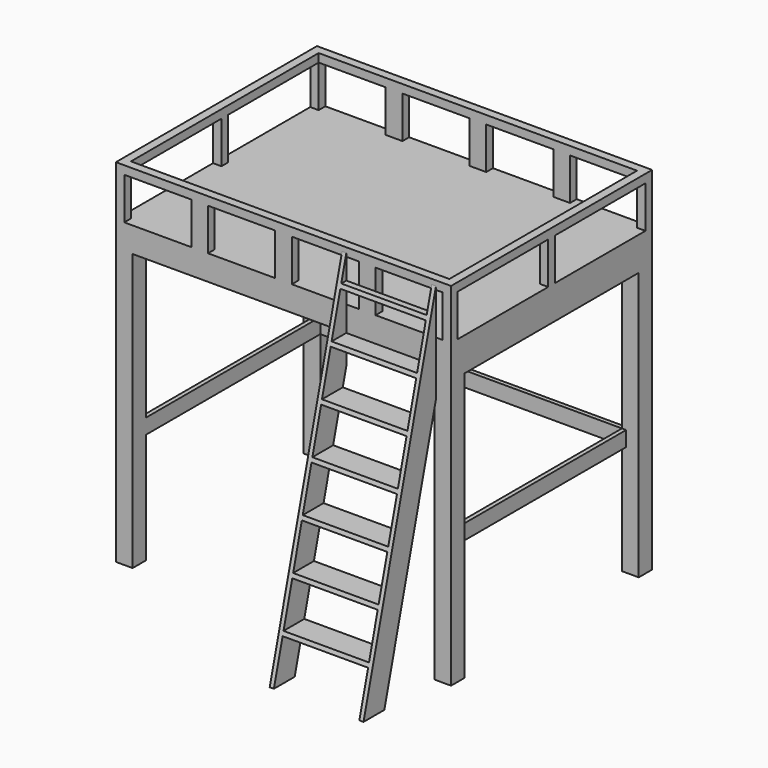
from build123d import *

# Parameters (mm, degrees)
F1_DEPTH      = 1500
F3_W          = 1900
F3_H          = 1400
F4_DEPTH      = 300
F5_W          = 400
F5_H          = 250
F6_DEPTH      = 1500.001
F7_W          = 675
F7_H          = 250
F8_DEPTH      = 1950.001
F8_DEPTH_BACK = 50.001
F9_W          = 1300
F9_H          = 1600
F10_DEPTH     = 2000.001
F14_DEPTH     = 560
F15_W         = 510
F15_H         = 250
F16_DEPTH     = 540.001
F18_DEPTH     = 90


with BuildPart() as f1:
    # F0 (on Front) → F1 (new body)
    with BuildSketch(Plane.XZ):
        Polygon((-1000, 1800), (-1000, 0), (-900, 0), (-900, 1650), (0, 1650), (0, 1800), align=None)
    extrude(amount=F1_DEPTH)

    # F2: F1 across plane


with BuildPart() as f1_1:
    add(f1.part)
    add(f1.part.mirror(Plane.YZ))

    # F3 (on face) → F4 (join)
    with BuildSketch(Plane.XY.offset(1800)):
        Polygon((-1000, -1500), (1000, -1500), (1000, -1450), (1000, 0), (-1000, 0), (-1000, -50), align=None)
        with Locations((0, -750)):
            Rectangle(F3_W, F3_H, mode=Mode.SUBTRACT)
    extrude(amount=F4_DEPTH)

    # F5 (on face) → F6 (cut, through all)
    with BuildSketch(Plane.XZ.offset(1500)):
        with Locations((-750, 1925)):
            Rectangle(F5_W, F5_H)
        with Locations((-250, 1925)):
            Rectangle(F5_W, F5_H)
        with Locations((250, 1925)):
            Rectangle(F5_W, F5_H)
        with Locations((750, 1925)):
            Rectangle(F5_W, F5_H)
        with Locations((1250, 1925)):
            Rectangle(F5_W, F5_H)
    extrude(amount=-F6_DEPTH, mode=Mode.SUBTRACT)

    # F7 (on face) → F8 (cut, two sides)
    with BuildSketch(Plane.YZ.offset(-950)) as f8_sk:
        with Locations((-1112.5, 1925)):
            Rectangle(F7_W, F7_H)
        with Locations((-387.5, 1925)):
            Rectangle(F7_W, F7_H)
    extrude(amount=F8_DEPTH, mode=Mode.SUBTRACT)
    extrude(f8_sk.sketch, amount=-F8_DEPTH_BACK, mode=Mode.SUBTRACT)

    # F9 (on face) → F10 (cut, through all)
    with BuildSketch(Plane(origin=(-1000, 0, 0), x_dir=(0, -1, 0), z_dir=(-1, 0, 0))):
        with Locations((750, 800)):
            Rectangle(F9_W, F9_H)
    extrude(amount=-F10_DEPTH, mode=Mode.SUBTRACT)

    # F17 (on offset) → F18 (join)
    with BuildSketch(Plane.XY.offset(660)):
        Polygon((-925, -75), (-925, -1400), (-900, -1400), (-900, -100), (900, -100), (900, -1400), (925, -1400), (925, -75), align=None)
    extrude(amount=F18_DEPTH)


with BuildPart() as f14:
    # F13 (on offset) → F14 (new body)
    with BuildSketch(Plane.YZ.offset(350)):
        Polygon((-1500, 1475.7567837998), (-1500, 2070), (-2040, 0), (-1884.9800305565, 0), align=None)
    extrude(amount=F14_DEPTH)

    # F15 (on face) → F16 (cut, through all)
    with BuildSketch(Plane.XZ.offset(1500)):
        with Locations((630, 125)):
            Rectangle(F15_W, F15_H)
        with Locations((630, 400)):
            Rectangle(F15_W, F15_H)
        with Locations((630, 675)):
            Rectangle(F15_W, F15_H)
        with Locations((630, 950)):
            Rectangle(F15_W, F15_H)
        with Locations((630, 1225)):
            Rectangle(F15_W, F15_H)
        with Locations((630, 1500)):
            Rectangle(F15_W, F15_H)
        with Locations((630, 1775)):
            Rectangle(F15_W, F15_H)
        with Locations((630, 2050)):
            Rectangle(F15_W, F15_H)
    extrude(amount=F16_DEPTH, mode=Mode.SUBTRACT)


solid = Compound([f1_1.part, f14.part])
